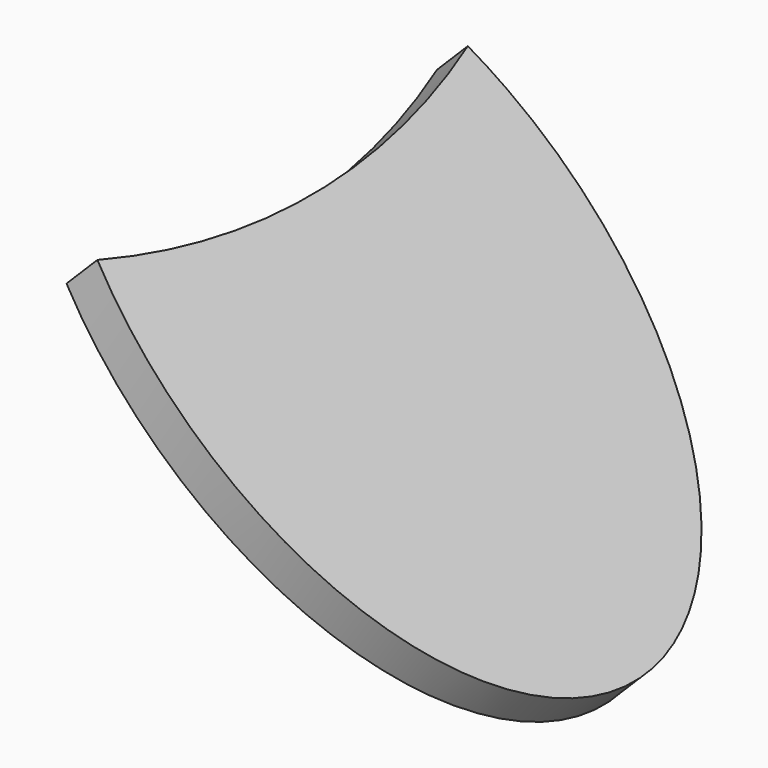
from build123d import *

# Parameters (mm, degrees)
F2_W     = 51.1
F2_H     = 70
F5_DEPTH = 25
F8_DEPTH = 2


with BuildPart() as f1:
    # F0 (on Front) → F1 (revolve)
    with BuildSketch(Plane.XZ):
        Polygon((-18, 0), (-15, 0), (0, 55.980762), (0, 67.176915), align=None)
    revolve(axis=Axis((0, 0, -5.671357), (0, 0, -1)))

    # F2 (on Front) → F3 (revolve, cut)
    with BuildSketch(Plane.XZ):
        with Locations((-25.55, 35)):
            Rectangle(F2_W, F2_H)
    revolve(axis=Axis((-51.1, 0, 35), (0, 0, 1)), mode=Mode.SUBTRACT)


with BuildPart() as f5:
    # F4 (on Front) → F5 (new body, symmetric)
    with BuildSketch(Plane.XZ):
        Polygon((-5.680286, 19.289707), (13.60942, 0), (15.023634, 0), (-4.97318, 19.996813), align=None)
    extrude(amount=F5_DEPTH, both=True)

    # F6: cut F1
    add(f1.part, mode=Mode.SUBTRACT)


with BuildPart() as f8:
    # F7 (on face) → F8 (new body)
    with BuildSketch(Plane(origin=(7.511817, 0, 7.511817), x_dir=(0.707107, 0, -0.707107), z_dir=(0.707107, 0, 0.707107))):
        with BuildLine():
            ThreePointArc((-12.200382, 10.617221), (-10.372685, 0), (-12.200382, -10.617221))
            add(Edge.make_bspline(
                [(-12.200382, -10.617221), (10.577657, -16.648397), (10.577657, 0), (10.577657, 16.648397), (-12.200382, 10.617221)],
                knots=[4.341689, 4.341689, 4.341689, 6.283185, 6.283185, 8.224681, 8.224681, 8.224681], degree=2, weights=[1, 0.564682, 1, 0.564682, 1]))
        make_face()
    extrude(amount=F8_DEPTH)


solid = f8.part
